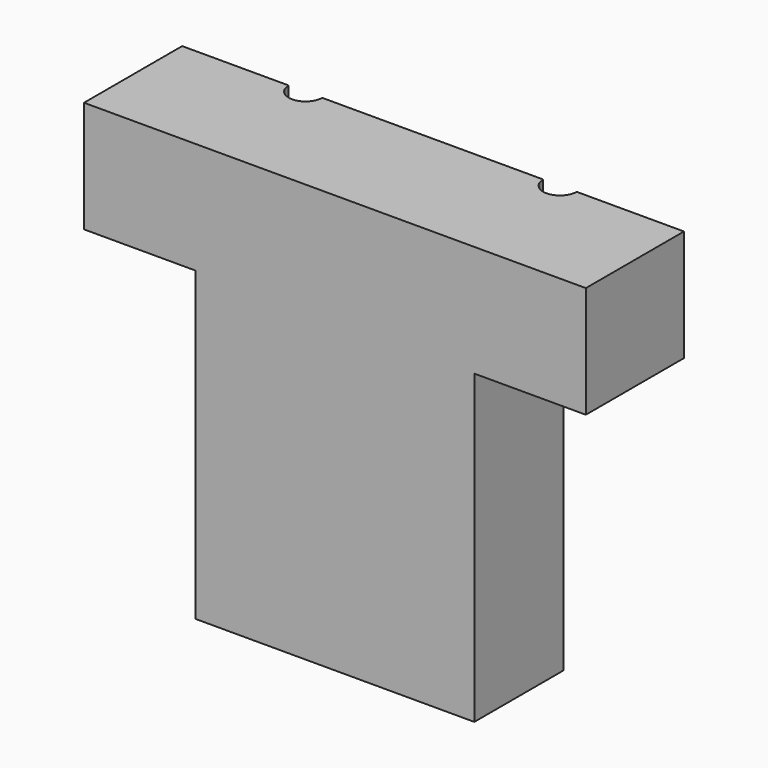
from build123d import *

# Parameters (mm, degrees)
F0_W      = 90
F0_H      = 22
F1_DEPTH  = 10
F3_DEPTH  = 5
F4_R      = 2
F5_W      = 90
F5_H      = 22
F6_DEPTH  = 10
F8_DEPTH  = 10
F9_R      = 2
F11_DEPTH = 45
F13_DEPTH = 45
F14_R     = 2
F15_W     = 50
F15_H     = 22
F16_DEPTH = 10
F17_R     = 5
F18_DEPTH = 25
F18_TAPER = 3
F20_R     = 3
F21_DEPTH = 90
F22_R     = 2.5
F23_DEPTH = 3.1
F23_TAPER = -3
F24_R     = 2.5
F25_DEPTH = 3.1
F25_TAPER = -3


with BuildPart() as f1:
    # F0 (on Top) → F1 (new body)
    with BuildSketch(Plane.XY):
        with Locations((0, -55.5313304067)):
            Rectangle(F0_W, F0_H)
    extrude(amount=F1_DEPTH)

    # F2 (on face) → F3 (cut)
    with BuildSketch(Plane(origin=(0, 0, 0), x_dir=(1, 0, 0), z_dir=(0, 0, -1))):
        Polygon((-39.5, 44.5313304067), (0, 44.5313304067), (39.5, 44.5313304067), (39.19890013, 61.7813304067), (-39.19890013, 61.7813304067), align=None)
    extrude(amount=-F3_DEPTH, mode=Mode.SUBTRACT)

    # F4
    f4_edges = [f1.edges().sort_by_distance(p)[0] for p in [
        (-39.1989, -61.78133, 2.5),
        (39.1989, -61.78133, 2.5),
    ]]
    fillet(f4_edges, radius=F4_R)

    # F5 (on face) → F6 (join)
    with BuildSketch(Plane(origin=(0, 0, 0), x_dir=(1, 0, 0), z_dir=(0, 0, -1))):
        with Locations((0, 55.5313304067)):
            Rectangle(F5_W, F5_H)
    extrude(amount=F6_DEPTH)

    # F7 (on face) → F8 (cut)
    with BuildSketch(Plane(origin=(0, 0, -10), x_dir=(1, 0, 0), z_dir=(0, 0, -1))):
        Polygon((-20, 44.5313304067), (0, 44.5313304067), (20, 44.5313304067), (19.8167218183, 55.0313304067), (-19.8167218183, 55.0313304067), align=None)
        Polygon((19.8167218183, 55.0313304067), (20, 44.5313304067), (20, 55.0313304067), align=None)
        Polygon((-20, 55.0313304067), (-20, 44.5313304067), (-19.8167218183, 55.0313304067), align=None)
        Polygon((-20, 44.5313304067), (0, 44.5313304067), (20, 44.5313304067), (19.8167218183, 55.0313304067), (-19.8167218183, 55.0313304067), align=None)
    extrude(amount=-F8_DEPTH, mode=Mode.SUBTRACT)

    # F9
    f9_edges = [f1.edges().sort_by_distance(p)[0] for p in [
        (-20, -55.03133, -5),
        (20, -55.03133, -5),
    ]]
    fillet(f9_edges, radius=F9_R)

    # F10 (on face) → F11 (join)
    with BuildSketch(Plane(origin=(0, 0, -10), x_dir=(1, 0, 0), z_dir=(0, 0, -1))):
        Polygon((-25, 44.5313304067), (0, 44.5313304067), (25, 44.5313304067), (25, 66.5313304067), (-25, 66.5313304067), align=None)
    extrude(amount=F11_DEPTH)

    # F12 (on face) → F13 (cut)
    with BuildSketch(Plane(origin=(0, 0, -55), x_dir=(1, 0, 0), z_dir=(0, 0, -1))):
        Polygon((-17.5, 44.5313304067), (0, 44.5313304067), (17.5, 44.5313304067), (17.3603594806, 52.5313304067), (-17.3603594806, 52.5313304067), align=None)
    extrude(amount=-F13_DEPTH, mode=Mode.SUBTRACT)

    # F14
    f14_edges = [f1.edges().sort_by_distance(p)[0] for p in [
        (-17.360359, -52.53133, -32.5),
        (17.360359, -52.53133, -32.5),
    ]]
    fillet(f14_edges, radius=F14_R)

    # F15 (on face) → F16 (join)
    with BuildSketch(Plane(origin=(0, 0, -55), x_dir=(1, 0, 0), z_dir=(0, 0, -1))):
        with Locations((0, 55.5313304067)):
            Rectangle(F15_W, F15_H)
    extrude(amount=F16_DEPTH)

    # F17 (on face) → F18 (cut)
    with BuildSketch(Plane(origin=(0, 0, -65), x_dir=(1, 0, 0), z_dir=(0, 0, -1))):
        with Locations((0, 44.5313304067)):
            Circle(F17_R)
    extrude(amount=-F18_DEPTH, taper=F18_TAPER, mode=Mode.SUBTRACT)

    # F20 (on face) → F21 (cut)
    with BuildSketch(Plane.XY.offset(10)):
        with Locations((22.7543748915, -44.5189550519)):
            Circle(F20_R)
        with Locations((-22.8854361922, -44.5189550519)):
            Circle(F20_R)
    extrude(amount=-F21_DEPTH, mode=Mode.SUBTRACT)

    # F22 (on face) → F23 (cut)
    with BuildSketch(Plane(origin=(0, -44.5313304067, 0), x_dir=(-1, 0, 0), z_dir=(0, 1, 0))):
        with Locations((-15.0013593957, -60.537815094)):
            Circle(F22_R)
        with Locations((15.0013593957, -60.537815094)):
            Circle(F22_R)
    extrude(amount=-F23_DEPTH, taper=F23_TAPER, mode=Mode.SUBTRACT)

    # F24 (on face) → F25 (cut)
    with BuildSketch(Plane(origin=(0, -44.5313304067, 0), x_dir=(-1, 0, 0), z_dir=(0, 1, 0))):
        with Locations((-42, 7.0607517846)):
            Circle(F24_R)
        with Locations((42, 7.0607517846)):
            Circle(F24_R)
    extrude(amount=-F25_DEPTH, taper=F25_TAPER, mode=Mode.SUBTRACT)


solid = f1.part
